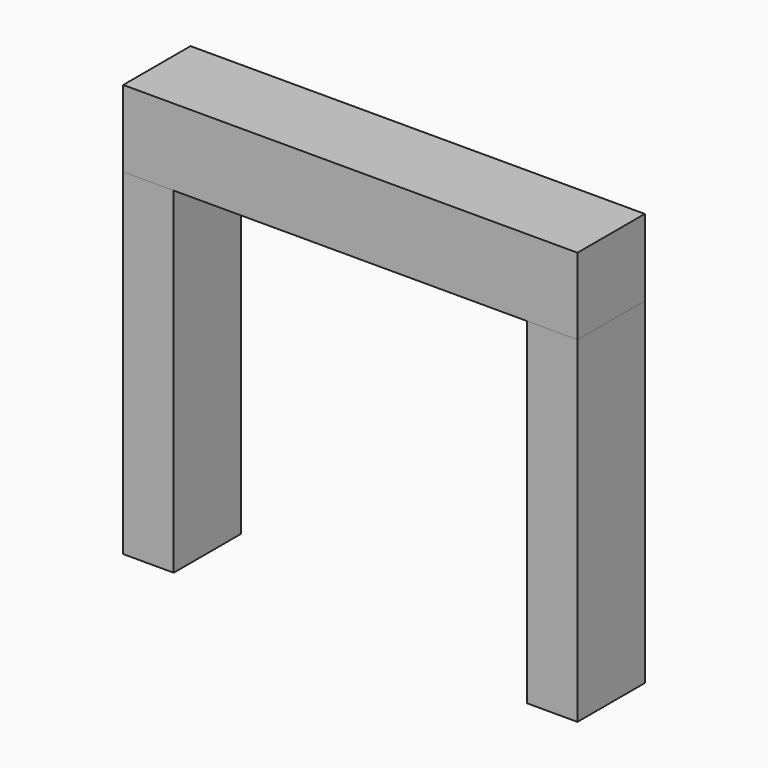
from build123d import *

# Parameters (mm, degrees)
F0_W     = 6
F0_H     = 10
F1_DEPTH = 40
F2_DEPTH = 9.1


with BuildPart() as f1:
    # F0 (on Top) → F1 (new body)
    with BuildSketch(Plane.XY):
        with Locations((-5.2217, 31.285606)):
            Rectangle(F0_W, F0_H)
        with Locations((-53.2217, 31.285606)):
            Rectangle(F0_W, F0_H)
    extrude(amount=-F1_DEPTH)


with BuildPart() as f2:
    # F0 (on Top) → F2 (new body)
    with BuildSketch(Plane.XY):
        with Locations((-53.2217, 31.285606)):
            Rectangle(F0_W, F0_H)
        Polygon((-8.2217, 36.285606), (-50.2217, 36.285606), (-50.2217, 26.285606), (-19.987069, 26.285606), (-13.240066, 26.285606), (-8.2217, 26.285606), align=None)
        with Locations((-5.2217, 31.285606)):
            Rectangle(F0_W, F0_H)
    extrude(amount=F2_DEPTH)


solid = Compound([f1.part, f2.part])
